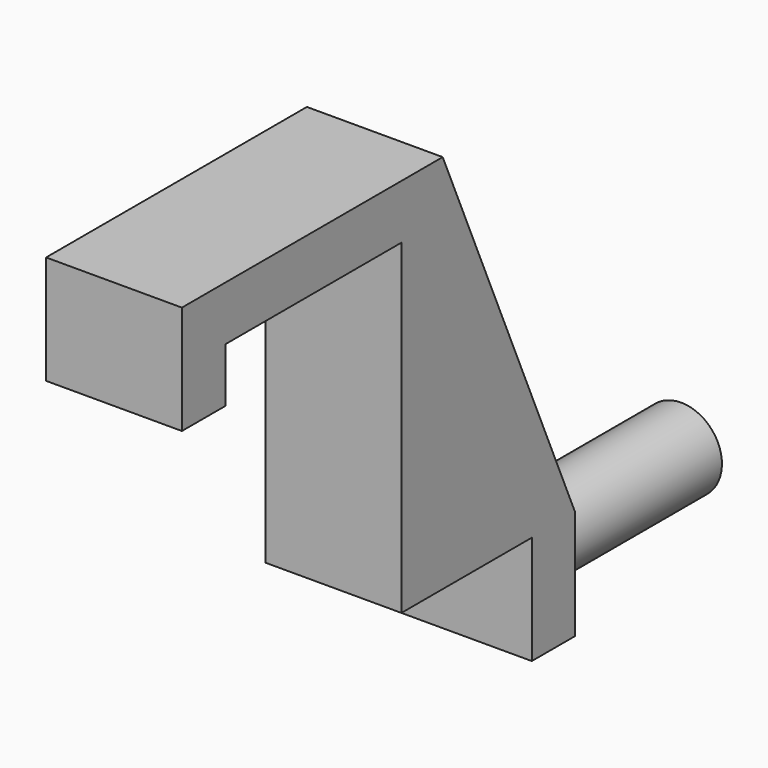
from build123d import *

# Parameters (mm, degrees)
PAD_DEPTH    = 5
SKETCH001_R  = 1.5
PAD001_DEPTH = 8


with BuildPart() as part:
    # Sketch → Pad (new body)
    with BuildSketch(Plane.YZ):
        Polygon((-10.1, 0), (-8.1, 0), (-8.1, 2), (0, 2), (0, -10), (6, -10), (6, -14), (8, -14), (8, -10), (1.9, 4), (-10.1, 4), align=None)
    extrude(amount=PAD_DEPTH)

    # Sketch001 (on Face10 of Pad) → Pad001 (join)
    with BuildSketch(Plane.ZX.offset(8)):
        with Locations((-12, 2.5)):
            Circle(SKETCH001_R)
    extrude(amount=PAD001_DEPTH)


solid = part.part
